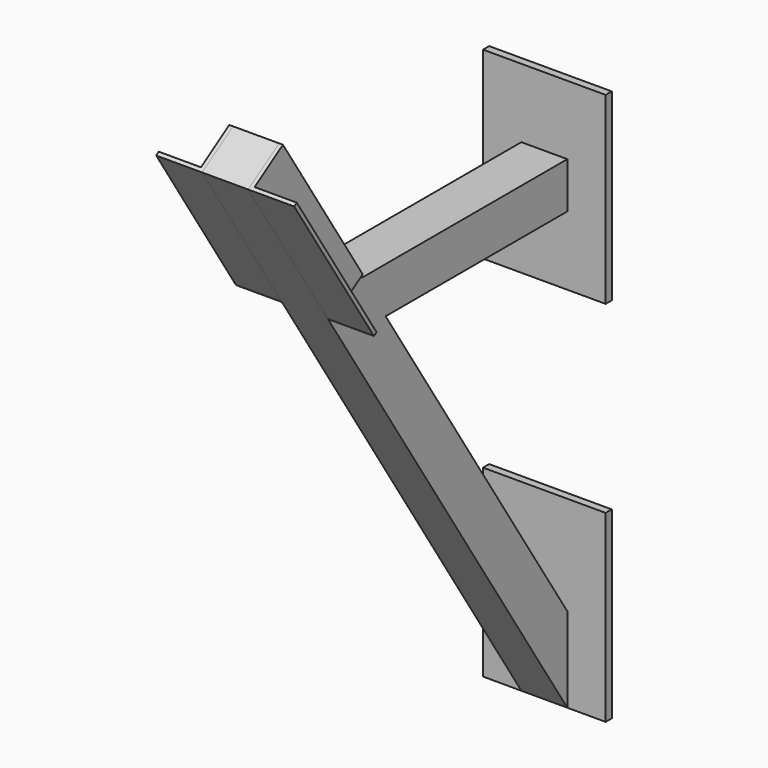
from build123d import *

# Parameters (mm, degrees)
F0_W     = 101.6
F0_H     = 152.4
F1_DEPTH = 6.35
F3_DEPTH = 19.05
F5_DEPTH = 152.4


with BuildPart() as f1:
    # F0 (on Front) → F1 (new body)
    with BuildSketch(Plane.XZ):
        with Locations((0, 381)):
            Rectangle(F0_W, F0_H)
        with Locations((0, 76.2)):
            Rectangle(F0_W, F0_H)
    extrude(amount=-F1_DEPTH)


with BuildPart() as f3:
    # F2 (on Right) → F3 (new body, symmetric)
    with BuildSketch(Plane.YZ):
        Polygon((-330.465893, 512.254286), (0, 0), (0, 70.281867), (-188.161178, 361.95), (-200.450729, 381), (-212.74028, 400.05), (-298.45, 532.908404), align=None)
        Polygon((-212.74028, 400.05), (-200.450729, 381), (0, 381), (0, 400.05), align=None)
        Polygon((-200.450729, 381), (-188.161178, 361.95), (0, 361.95), (0, 381), align=None)
    extrude(amount=F3_DEPTH, both=True)


with BuildPart() as f5:
    # F4 (on face) → F5 (new body)
    with BuildSketch(Plane(origin=(0, -330.465893, 512.254286), x_dir=(1, 0, 0), z_dir=(0, -0.542103, 0.840312))):
        Polygon((-57.15, 0), (-19.05, 0), (-19.05, 38.1), (-22.225, 38.1), (-22.225, 3.175), (-57.15, 3.175), align=None)
        Polygon((19.05, 38.1), (19.05, 0), (57.15, 0), (57.15, 3.175), (22.225, 3.175), (22.225, 38.1), align=None)
    extrude(amount=-F5_DEPTH)


solid = Compound([f1.part, f3.part, f5.part])
